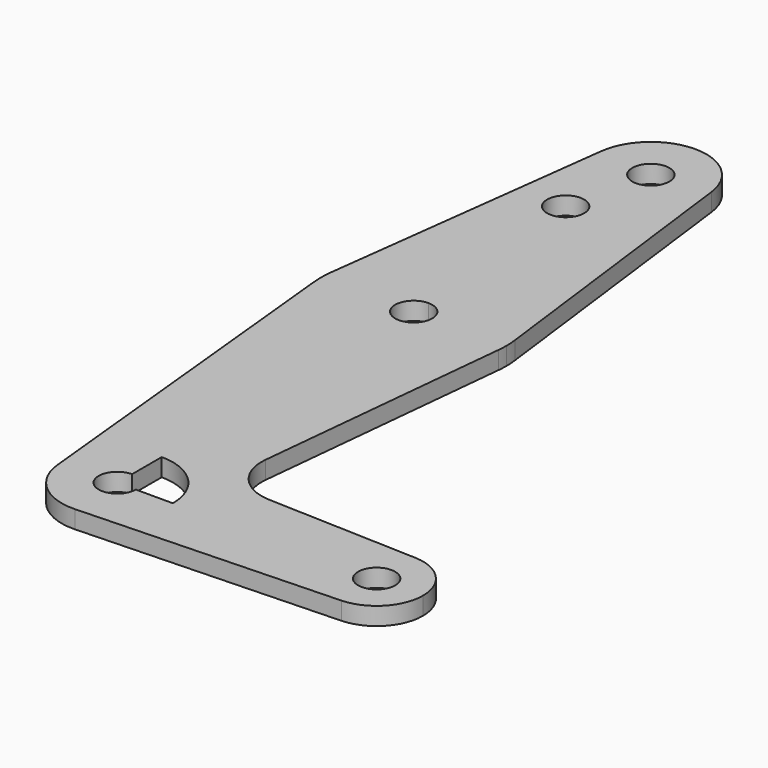
from build123d import *

# Parameters (mm, degrees)
F0_R     = 3.175
F1_DEPTH = 3.048


with BuildPart() as f1:
    # F0 (on Top) → F1 (new body)
    with BuildSketch(Plane.XY):
        with BuildLine():
            ThreePointArc((3.175, 0), (-2.2450640303, -2.2450640303), (0, 3.175))
            Line((0, 3.175), (0, 9.525))
            ThreePointArc((0, 9.525), (-7.063929059, 6.3895642457), (-9.4772553384, -0.9525))
            ThreePointArc((-9.4772553384, -0.9525), (-6.2623833816, -7.1769199091), (0.3401785714, -9.5189234444))
            ThreePointArc((0.3401785714, -9.5189234444), (6.8544082857, -6.6138273378), (9.525, 0))
            Line((9.525, 0), (3.175, 0))
        make_face()
        with BuildLine():
            ThreePointArc((-9.4772553384, -0.9525), (-7.063929059, 6.3895642457), (0, 9.525))
            Line((0, 9.525), (0, 47.625))
            ThreePointArc((0, 47.625), (-10.6492737428, 51.7267849017), (-15.7954255641, 61.9125))
            Line((-15.7954255641, 61.9125), (-9.4772553384, -0.9525))
        make_face()
        with BuildLine():
            Line((0, 47.625), (0, 9.525))
            ThreePointArc((0, 9.525), (6.7351920908, 6.7351920908), (9.525, 0))
            Line((9.525, 0), (36.5125, 0))
            ThreePointArc((36.5125, 0), (38.9384772185, 5.7120069047), (44.7334821429, 7.9324362036))
            Line((44.7334821429, 7.9324362036), (18.9676000005, 8.8532337108))
            ThreePointArc((18.9676000005, 8.8532337108), (13.2611998974, 11.5713591498), (11.3411865923, 17.5933818124))
            Line((11.3411865923, 17.5933818124), (15.7954255641, 61.9125))
            ThreePointArc((15.7954255641, 61.9125), (10.6492737428, 51.7267849017), (0, 47.625))
        make_face()
        with BuildLine():
            Line((36.5125, 0), (9.525, 0))
            ThreePointArc((9.525, 0), (6.8544082857, -6.6138273378), (0.3401785714, -9.5189234444))
            Line((0.3401785714, -9.5189234444), (44.7334821429, -7.9324362036))
            ThreePointArc((44.7334821429, -7.9324362036), (38.9384772185, -5.7120069047), (36.5125, 0))
        make_face()
        with BuildLine():
            ThreePointArc((-15.7954255641, 61.9125), (-10.6492737428, 51.7267849017), (0, 47.625))
            Line((0, 47.625), (0, 60.325))
            ThreePointArc((0, 60.325), (-3.175, 63.5), (0, 66.675))
            Line((0, 66.675), (0, 79.375))
            ThreePointArc((0, 79.375), (-10.5003255158, 75.40625), (-15.7504882737, 65.484375))
            ThreePointArc((-15.7504882737, 65.484375), (-15.8737438155, 63.6997054867), (-15.7954255641, 61.9125))
        make_face()
        with BuildLine():
            Line((0, 60.325), (0, 47.625))
            ThreePointArc((0, 47.625), (10.6492737428, 51.7267849017), (15.7954255641, 61.9125))
            ThreePointArc((15.7954255641, 61.9125), (15.8550939106, 62.7052534459), (15.875, 63.5))
            ThreePointArc((15.875, 63.5), (15.8438414904, 64.4941387366), (15.7504882737, 65.484375))
            ThreePointArc((15.7504882737, 65.484375), (10.5003255158, 75.40625), (0, 79.375))
            Line((0, 79.375), (0, 66.675))
            ThreePointArc((0, 66.675), (2.2450640303, 65.7450640303), (3.175, 63.5))
            ThreePointArc((3.175, 63.5), (2.2450640303, 61.2549359697), (0, 60.325))
        make_face()
        with BuildLine():
            ThreePointArc((44.7334821429, 7.9324362036), (38.9384772185, 5.7120069047), (36.5125, 0))
            ThreePointArc((36.5125, 0), (38.9384772185, -5.7120069047), (44.7334821429, -7.9324362036))
            ThreePointArc((44.7334821429, -7.9324362036), (50.1620069047, -5.5115227815), (52.3875, 0))
            ThreePointArc((52.3875, 0), (50.1620069047, 5.5115227815), (44.7334821429, 7.9324362036))
        make_face()
        with BuildLine():
            ThreePointArc((47.625, 0), (44.45, -3.175), (41.275, 0))
            ThreePointArc((41.275, 0), (44.45, 3.175), (47.625, 0))
        make_face(mode=Mode.SUBTRACT)
        with BuildLine():
            Line((-9.4502929642, 115.490625), (-15.7504882737, 65.484375))
            ThreePointArc((-15.7504882737, 65.484375), (-10.5003255158, 75.40625), (0, 79.375))
            Line((0, 79.375), (0, 100.0252))
            Line((0, 100.0252), (0, 104.775))
            ThreePointArc((0, 104.775), (-7.14375, 107.9998046905), (-9.4502929642, 115.490625))
        make_face()
        with Locations((-3.175, 100.0252)):
            Circle(F0_R, mode=Mode.SUBTRACT)
        with BuildLine():
            Line((0, 100.0252), (0, 79.375))
            ThreePointArc((0, 79.375), (10.5003255158, 75.40625), (15.7504882737, 65.484375))
            Line((15.7504882737, 65.484375), (9.4502929642, 115.490625))
            ThreePointArc((9.4502929642, 115.490625), (9.5063048942, 114.896483242), (9.525, 114.3))
            ThreePointArc((9.525, 114.3), (6.7351920908, 107.5648079092), (0, 104.775))
            Line((0, 104.775), (0, 100.0252))
        make_face()
        with BuildLine():
            ThreePointArc((9.4502929642, 115.490625), (0, 123.825), (-9.4502929642, 115.490625))
            ThreePointArc((-9.4502929642, 115.490625), (-7.14375, 107.9998046905), (0, 104.775))
            ThreePointArc((0, 104.775), (6.7351920908, 107.5648079092), (9.525, 114.3))
            ThreePointArc((9.525, 114.3), (9.5063048942, 114.896483242), (9.4502929642, 115.490625))
        make_face()
        with BuildLine():
            ThreePointArc((3.175, 114.3), (2.2450640303, 112.0549359697), (0, 111.125))
            ThreePointArc((0, 111.125), (-2.2450640303, 116.5450640303), (3.175, 114.3))
        make_face(mode=Mode.SUBTRACT)
    extrude(amount=F1_DEPTH)


solid = f1.part
